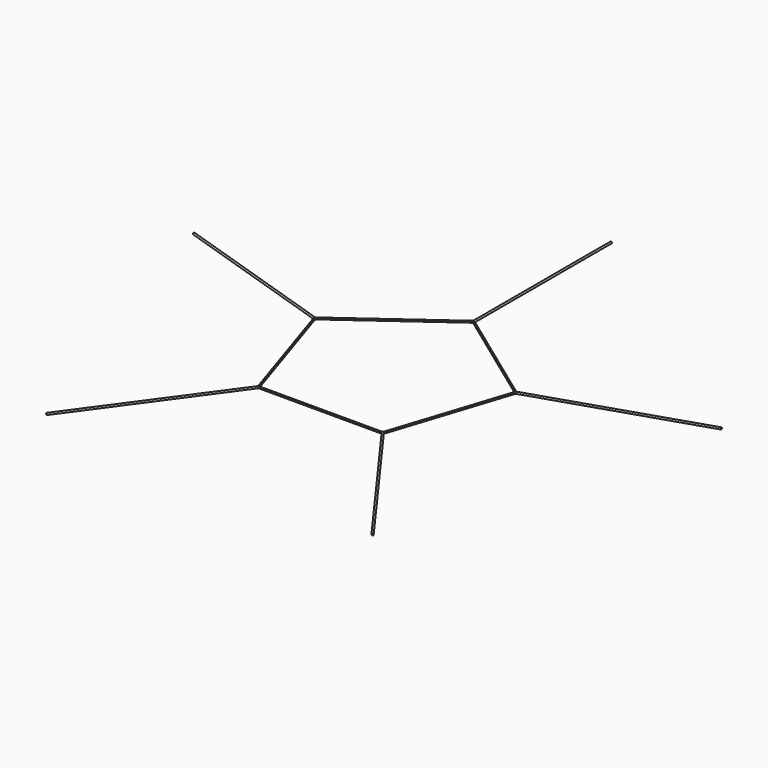
from build123d import *

# Parameters (mm, degrees)
F1_DEPTH      = 6.35
F2_R          = 4.7625
F4_DEPTH      = 1473.2
F5_COUNT      = 5
F7_DEPTH      = 25.4
F7_DEPTH_BACK = 25.4


with BuildPart() as f1:
    # F0 (on Top) → F1 (new body)
    with BuildSketch(Plane.XY):
        Polygon((537.4708346962, 174.6348603435), (0, 565.1302793129), (-537.4708346962, 174.6348603435), (-332.1752438041, -457.2), (332.1752438041, -457.2), align=None)
        Polygon((-530.0059619921, 172.2093761721), (0, 557.2812476558), (530.0059619921, 172.2093761721), (327.5616987512, -450.85), (-327.5616987512, -450.85), align=None, mode=Mode.SUBTRACT)
    extrude(amount=F1_DEPTH)

    # F2 (on Front) → F4 (join)
    with BuildSketch(Plane.XZ):
        with Locations((0, 3.175)):
            Circle(F2_R)
    extrude(amount=-F4_DEPTH)

    # F5: F1 ×5 about axis
    f5_axis = Axis((0, 0, 25.2953320742), (0, 0, 1))


with BuildPart() as f1_1:
    add(f1.part)
    for i in range(1, F5_COUNT):
        add(f1.part.rotate(f5_axis, i * 360 / F5_COUNT))

    # F6 (on Top) → F7 (cut, two sides)
    with BuildSketch(Plane.XY) as f7_sk:
        Polygon((0, 557.2812476558), (-530.0059619921, 172.2093761721), (-327.5616987512, -450.85), (327.5616987512, -450.85), (530.0059619921, 172.2093761721), align=None)
    extrude(amount=-F7_DEPTH, mode=Mode.SUBTRACT)
    extrude(f7_sk.sketch, amount=F7_DEPTH_BACK, mode=Mode.SUBTRACT)


solid = f1_1.part
